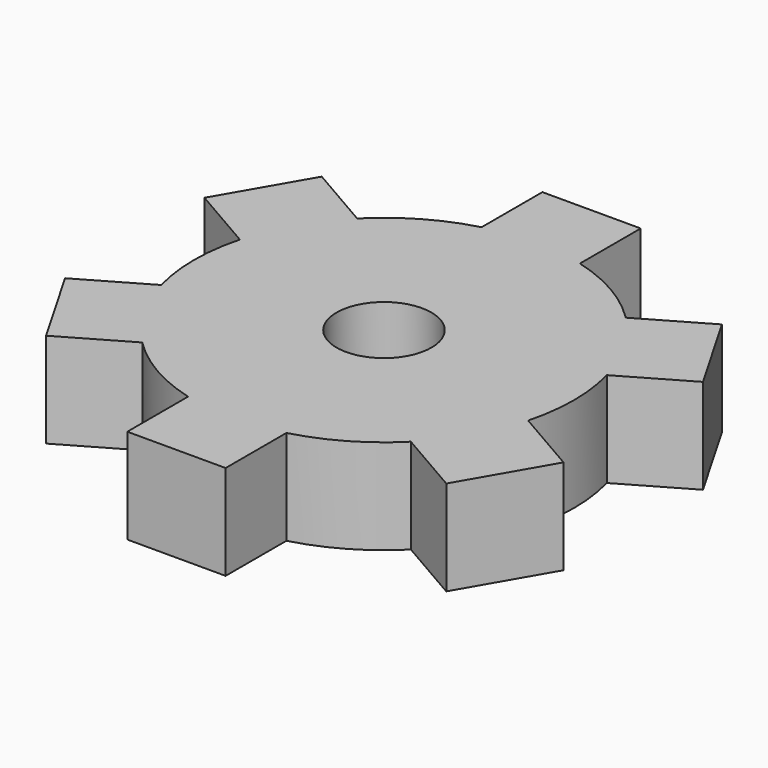
from build123d import *

# Parameters (mm, degrees)
F0_R     = 25.4
F1_DEPTH = 12.7
F3_DEPTH = 12.7
F5_COUNT = 6
F6_R     = 6.35
F7_DEPTH = 25.4


with BuildPart() as f1:
    # F0 (on Top) → F1 (new body)
    with BuildSketch(Plane.XY):
        Circle(F0_R)
    extrude(amount=F1_DEPTH)

    # F2 (on face) → F3 (join)
    with BuildSketch(Plane.XY.offset(12.7)):
        Polygon((-6.574004, 24.534516), (0, 0), (0, 24.534516), align=None)
        Polygon((0, 24.534516), (0, 0), (6.574004, 24.534516), align=None)
        Polygon((-6.574004, 24.534516), (0, 24.534516), (6.574004, 24.534516), (6.574004, 34.694516), (-6.574004, 34.694516), align=None)
    extrude(amount=-F3_DEPTH)

    # F5: F1 ×6 about axis
    f5_axis = Axis((0, 0, 30.303461), (0, 0, 1))


with BuildPart() as f1_1:
    add(f1.part)
    for i in range(1, F5_COUNT):
        add(f1.part.rotate(f5_axis, i * 360 / F5_COUNT))

    # F6 (on face) → F7 (cut)
    with BuildSketch(Plane.XY.offset(12.7)):
        Circle(F6_R)
    extrude(amount=-F7_DEPTH, mode=Mode.SUBTRACT)


solid = f1_1.part
